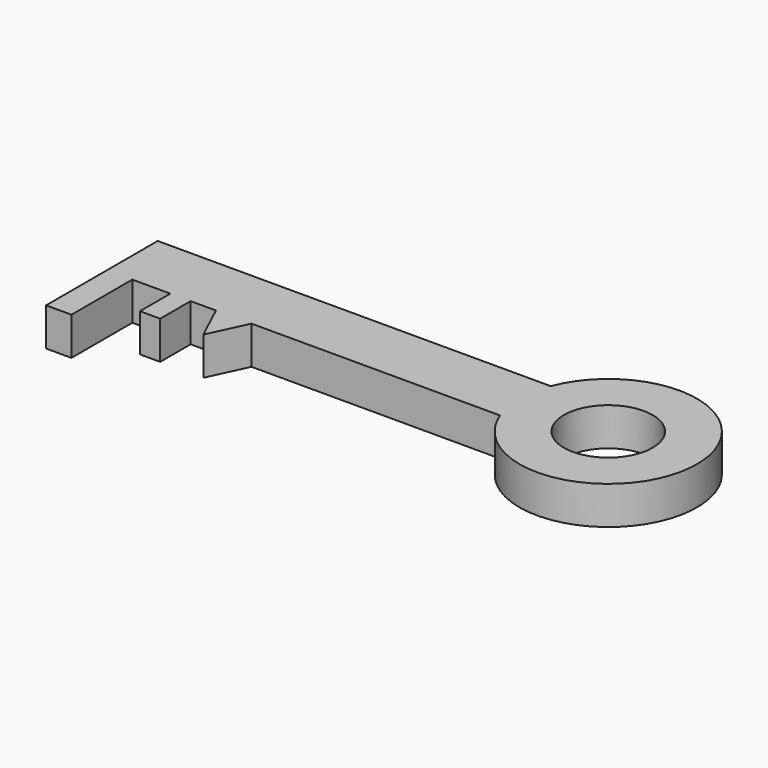
from build123d import *

# Parameters (mm, degrees)
F0_W     = 10
F0_H     = 30
F0_W_2   = 8
F0_H_2   = 15
F0_R     = 17.5
F1_DEPTH = 15


with BuildPart() as f1:
    # F0 (on Top) → F1 (new body)
    with BuildSketch(Plane.XY):
        with Locations((-150, -15)):
            Rectangle(F0_W, F0_H)
        with Locations((-126, -7.5)):
            Rectangle(F0_W_2, F0_H_2)
        with BuildLine():
            Line((0, 25), (0, 0))
            ThreePointArc((0, 0), (67.691742, 12.5), (0, 25))
        make_face()
        with Locations((32.691742, 12.5)):
            Circle(F0_R, mode=Mode.SUBTRACT)
        Polygon((-98, 0), (0, 0), (0, 25), (-155, 25), (-155, 0), (-145, 0), (-130, 0), (-122, 0), (-112, 0), align=None)
        Polygon((-105, -15), (-98, 0), (-112, 0), align=None)
    extrude(amount=F1_DEPTH)


solid = f1.part
